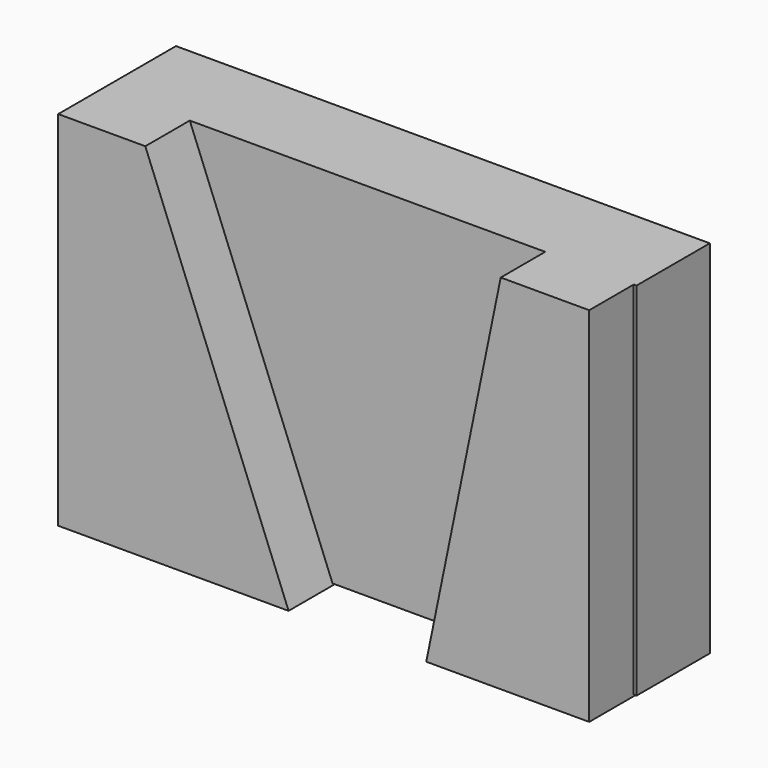
from build123d import *

# Parameters (mm, degrees)
F0_W     = 124.350928
F0_H     = 84.100488
F1_DEPTH = 21.336
F3_DEPTH = 34.29


with BuildPart() as f1:
    # F0 (on Front) → F1 (new body)
    with BuildSketch(Plane.XZ):
        with Locations((-1.308959, -2.619775)):
            Rectangle(F0_W, F0_H)
    extrude(amount=F1_DEPTH)

    # F2 (on Front) → F3 (join)
    with BuildSketch(Plane.XZ):
        Polygon((-43.195583, 39.430469), (-63.484423, 39.430469), (-63.484423, -44.99726), (-9.817178, -44.99726), align=None)
        Polygon((60.212024, -44.99726), (60.212024, 39.430469), (39.59595, 39.430469), (22.252267, -44.99726), align=None)
    extrude(amount=F3_DEPTH)


solid = f1.part
